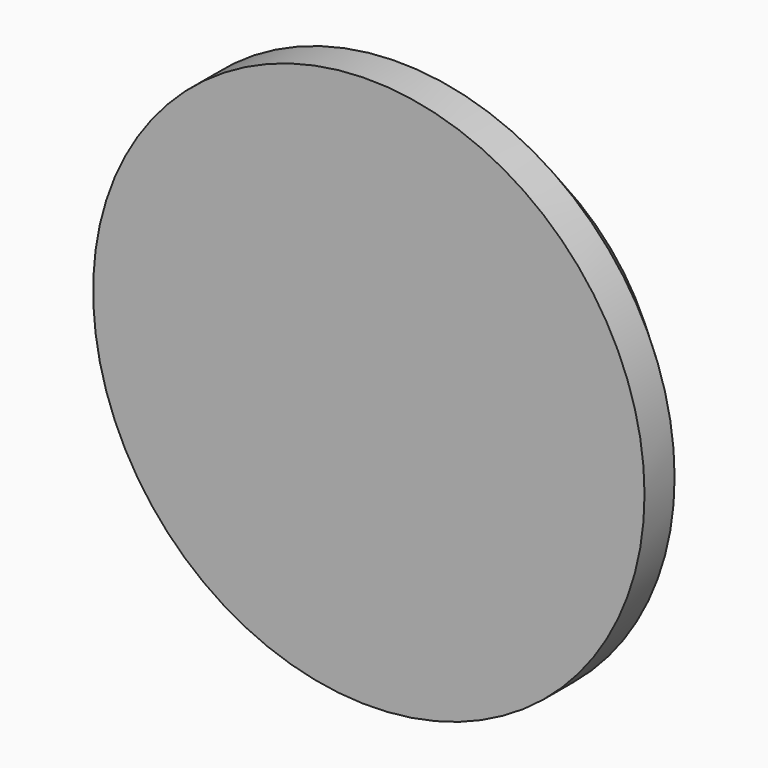
from build123d import *

# Parameters (mm, degrees)
BOX760_W           = 40
BOX760_H           = 20
BOX760_DEPTH       = 40
CYLINDER1812_R     = 4.1
CYLINDER1812_DEPTH = 10
CYLINDER1814_R     = 11
CYLINDER1814_DEPTH = 4
CHAMFER062_SIZE    = 2.5


with BuildPart() as krychle760:
    # Box760 → Box760 (new body)
    with BuildSketch(Plane(origin=(-20, 110, 30), x_dir=(1, 0, 0), z_dir=(0, 0, 1))):
        with Locations((20, 10)):
            Rectangle(BOX760_W, BOX760_H)
    extrude(amount=BOX760_DEPTH)


with BuildPart() as obj1:
    # Cylinder1812 → Cylinder1812 (new body)
    with BuildSketch(Plane(origin=(0, 118, 50), x_dir=(1, 0, 0), z_dir=(0, -1, 0))):
        Circle(CYLINDER1812_R)
    extrude(amount=CYLINDER1812_DEPTH)


with BuildPart() as chamfer062:
    # Cylinder1814 → Cylinder1814 (new body)
    with BuildSketch(Plane(origin=(0, 110, 50), x_dir=(1, 0, 0), z_dir=(0, -1, 0))):
        Circle(CYLINDER1814_R)
    extrude(amount=CYLINDER1814_DEPTH)

    # Cut556: cut obj1
    add(obj1.part, mode=Mode.SUBTRACT)

    # Cut557: cut Krychle760
    add(krychle760.part, mode=Mode.SUBTRACT)

    # Chamfer062
    chamfer062_edges = [chamfer062.edges().sort_by_distance(p)[0] for p in [
        (-11, 110, 50),
    ]]
    chamfer(chamfer062_edges, length=CHAMFER062_SIZE)


solid = chamfer062.part
